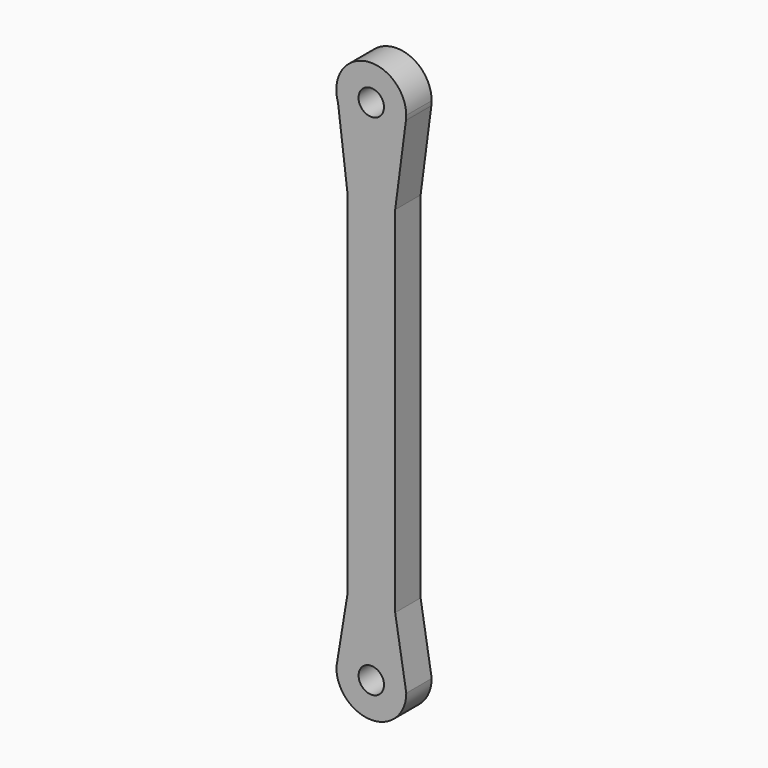
from build123d import *

# Parameters (mm, degrees)
F0_R     = 2
F1_DEPTH = 5


with BuildPart() as f1:
    # F0 (on Front) → F1 (new body)
    with BuildSketch(Plane.XZ):
        with BuildLine():
            ThreePointArc((5.4533767522, 44.0361336126), (5.4883318111, 44.3926840604), (5.5, 44.7507537901))
            ThreePointArc((5.5, 44.7507537901), (0.1873148571, 50.2475631505), (-5.4872411434, 45.1251661756))
            Line((-5.4872411434, 45.1251661756), (-5.2320828014, 43.0550800129))
            ThreePointArc((-5.2320828014, 43.0550800129), (-4.6442602789, 41.8044261671), (-3.7632474688, 40.7397728018))
            ThreePointArc((-3.7632474688, 40.7397728018), (0, 39.2507537901), (3.7632474688, 40.7397728018))
            ThreePointArc((3.7632474688, 40.7397728018), (4.8941842177, 42.241379198), (5.4533767522, 44.0361336126))
        make_face()
        with Locations((0, 44.7507537901)):
            Circle(F0_R, mode=Mode.SUBTRACT)
        with BuildLine():
            Line((-5.2320828014, 43.0550800129), (-5.4872411434, 45.1251661756))
            ThreePointArc((-5.4872411434, 45.1251661756), (-5.4586894617, 44.0779169888), (-5.2320828014, 43.0550800129))
        make_face()
        with BuildLine():
            Line((3.7632474688, 31.1384964734), (5.4533767522, 44.0361336126))
            ThreePointArc((5.4533767522, 44.0361336126), (4.8941842177, 42.241379198), (3.7632474688, 40.7397728018))
            Line((3.7632474688, 40.7397728018), (3.7632474688, 31.1384964734))
        make_face()
        with BuildLine():
            ThreePointArc((-3.7632474688, 40.7397728018), (-4.6442602789, 41.8044261671), (-5.2320828014, 43.0550800129))
            Line((-5.2320828014, 43.0550800129), (-3.7632474688, 31.1384964734))
            Line((-3.7632474688, 31.1384964734), (-3.7632474688, 40.7397728018))
        make_face()
        with BuildLine():
            Line((3.7632474688, 31.1384964734), (3.7632474688, 40.7397728018))
            ThreePointArc((3.7632474688, 40.7397728018), (0, 39.2507537901), (-3.7632474688, 40.7397728018))
            Line((-3.7632474688, 40.7397728018), (-3.7632474688, 31.1384964734))
            Line((-3.7632474688, 31.1384964734), (3.7632474688, 31.1384964734))
        make_face()
        Polygon((3.7632474688, -24.6683768928), (3.7632474688, 31.1384964734), (-3.7632474688, 31.1384964734), (-3.7632474688, -24.6683768928), (3.7632474688, -33.2588251399), align=None)
        Polygon((5.5071490914, -35.2492465462), (3.7632474688, -24.6683768928), (3.7632474688, -33.2588251399), align=None)
        with BuildLine():
            Line((3.7632474688, -33.2588251399), (-3.7632474688, -24.6683768928))
            Line((-3.7632474688, -24.6683768928), (-3.7632474688, -35.2492465462))
            Line((-3.7632474688, -35.2492465462), (-1.9928509086, -35.2492465462))
            ThreePointArc((-1.9928509086, -35.2492465462), (0.0071490914, -33.2492465462), (2.0071490914, -35.2492465462))
            Line((2.0071490914, -35.2492465462), (3.7632474688, -35.2492465462))
            Line((3.7632474688, -35.2492465462), (3.7632474688, -33.2588251399))
        make_face()
        Polygon((-3.7632474688, -35.2492465462), (-3.7632474688, -24.6683768928), (-5.4928509086, -35.2492465462), align=None)
        with BuildLine():
            Line((5.5071490914, -35.2492465462), (3.7632474688, -33.2588251399))
            Line((3.7632474688, -33.2588251399), (3.7632474688, -35.2492465462))
            Line((3.7632474688, -35.2492465462), (2.0071490914, -35.2492465462))
            ThreePointArc((2.0071490914, -35.2492465462), (0.0071490914, -37.2492465462), (-1.9928509086, -35.2492465462))
            Line((-1.9928509086, -35.2492465462), (-3.7632474688, -35.2492465462))
            Line((-3.7632474688, -35.2492465462), (-5.4928509086, -35.2492465462))
            ThreePointArc((-5.4928509086, -35.2492465462), (0.0071490914, -40.7492465462), (5.5071490914, -35.2492465462))
        make_face()
    extrude(amount=F1_DEPTH)


solid = f1.part
